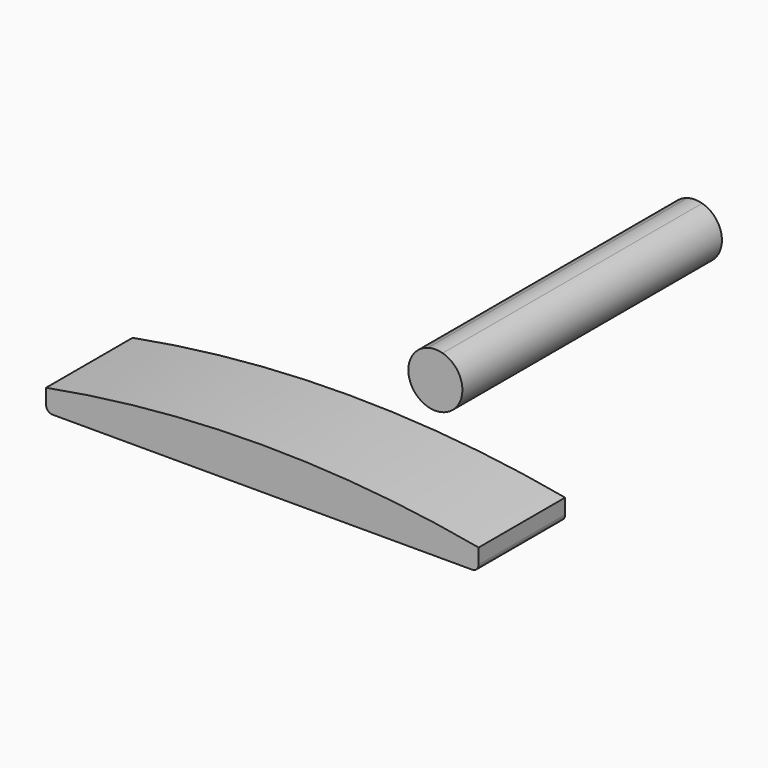
from build123d import *

# Parameters (mm, degrees)
F2_DEPTH = 50
F3_DEPTH = 150


with BuildPart() as f2:
    # F1 (on Front) → F2 (new body)
    with BuildSketch(Plane.XZ):
        with BuildLine():
            Line((100, -2), (100, 5))
            Line((100, 5), (-100, 5))
            Line((-100, 5), (-100, -2))
            ThreePointArc((-100, -2), (-99.12132, -4.12132), (-97, -5))
            Line((-97, -5), (97, -5))
            ThreePointArc((97, -5), (99.12132, -4.12132), (100, -2))
        make_face()
        with BuildLine():
            Line((-100, 5), (100, 5))
            ThreePointArc((100, 5), (0, 14.228244), (-100, 5))
        make_face()
    extrude(amount=F2_DEPTH)


with BuildPart() as f3:
    # F0 (on Front) → F3 (new body)
    with BuildSketch(Plane.XZ):
        with BuildLine():
            Line((0, 0), (-3.372198, 12.036539))
            ThreePointArc((-3.372198, 12.036539), (-11.57548, 4.717866), (-10.825318, -6.25))
            Line((-10.825318, -6.25), (0, 0))
        make_face()
        with BuildLine():
            ThreePointArc((3.372198, 12.036539), (0, 12.5), (-3.372198, 12.036539))
            Line((-3.372198, 12.036539), (0, 0))
            Line((0, 0), (3.372198, 12.036539))
        make_face()
        with BuildLine():
            ThreePointArc((10.825318, -6.25), (11.57548, 4.717866), (3.372198, 12.036539))
            Line((3.372198, 12.036539), (0, 0))
            Line((0, 0), (10.825318, -6.25))
        make_face()
        with BuildLine():
            Line((0, 0), (-10.825318, -6.25))
            ThreePointArc((-10.825318, -6.25), (0, -12.5), (10.825318, -6.25))
            Line((10.825318, -6.25), (0, 0))
        make_face()
    extrude(amount=-F3_DEPTH)


with BuildPart() as f2_1:
    # F4: moved
    add(f2.part.moved(Location((0, -50, 0))))


solid = Compound([f3.part, f2_1.part])
